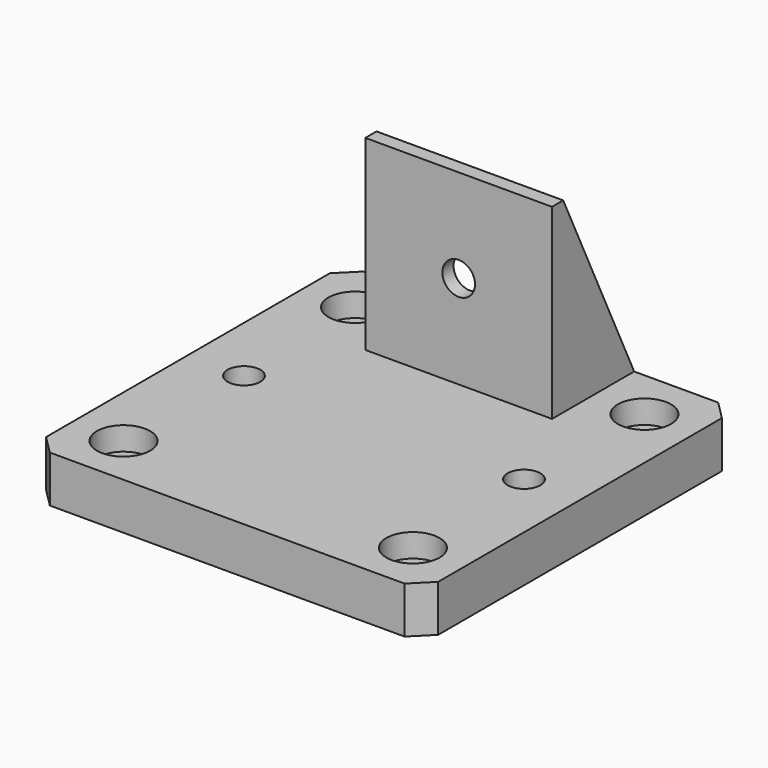
from build123d import *

# Parameters (mm, degrees)
BOX_W           = 42
BOX_H           = 42
BOX_DEPTH       = 5
SKETCH_R        = 2.75
POCKET_DEPTH    = 2.5
SKETCH001_R     = 1.55
POCKET001_DEPTH = 5
SKETCH002_R     = 2.75
POCKET002_DEPTH = 2.5
SKETCH003_R     = 1.55
POCKET003_DEPTH = 5
CHAMFER_SIZE    = 2
CHAMFER001_SIZE = 2
CHAMFER002_SIZE = 2
CHAMFER003_SIZE = 2
SKETCH004_W     = 16
SKETCH004_H     = 2.5
PAD_DEPTH       = 20
PAD001_DEPTH    = 2
PAD002_DEPTH    = 2
SKETCH007_R     = 1.55
POCKET004_DEPTH = 5
SKETCH008_W     = 20
SKETCH008_H     = 20
POCKET005_DEPTH = 1
SKETCH010_R     = 2.85
SKETCH010_R_2   = 1.75
POCKET006_DEPTH = 2.5
SKETCH011_R     = 1.75
SKETCH011_R_2   = 2.85
POCKET007_DEPTH = 2.5
SKETCH012_R     = 1.75
POCKET008_DEPTH = 5


with BuildPart() as part:
    # Box → Box (new body)
    with BuildSketch(Plane(origin=(-21, -21, 0), x_dir=(1, 0, 0), z_dir=(0, 0, 1))):
        with Locations((21, 21)):
            Rectangle(BOX_W, BOX_H)
    extrude(amount=BOX_DEPTH)

    # Sketch → Pocket (cut)
    with BuildSketch(Plane(origin=(-21, -21, 5), x_dir=(1, 0, 0), z_dir=(0, 0, 1))):
        with Locations((5.5, 5.5)):
            Circle(SKETCH_R)
        with Locations((36.5, 5.5)):
            Circle(SKETCH_R)
        with Locations((36.5, 36.5)):
            Circle(SKETCH_R)
        with Locations((5.5, 36.5)):
            Circle(SKETCH_R)
    extrude(amount=-POCKET_DEPTH, mode=Mode.SUBTRACT)

    # Sketch001 → Pocket001 (cut)
    with BuildSketch(Plane(origin=(-21, -21, 0), x_dir=(1, 0, 0), z_dir=(0, 0, -1))):
        with Locations((5.5, -5.5)):
            Circle(SKETCH001_R)
        with Locations((36.5, -5.5)):
            Circle(SKETCH001_R)
        with Locations((36.5, -36.5)):
            Circle(SKETCH001_R)
        with Locations((5.5, -36.5)):
            Circle(SKETCH001_R)
    extrude(amount=-POCKET001_DEPTH, mode=Mode.SUBTRACT)

    # Sketch002 → Pocket002 (cut)
    with BuildSketch(Plane(origin=(-21, -21, 0), x_dir=(1, 0, 0), z_dir=(0, 0, -1))):
        with Locations((6, -21)):
            Circle(SKETCH002_R)
        with Locations((36, -21)):
            Circle(SKETCH002_R)
    extrude(amount=-POCKET002_DEPTH, mode=Mode.SUBTRACT)

    # Sketch003 → Pocket003 (cut)
    with BuildSketch(Plane(origin=(-21, -21, 5), x_dir=(1, 0, 0), z_dir=(0, 0, 1))):
        with Locations((6, 21)):
            Circle(SKETCH003_R)
        with Locations((36, 21)):
            Circle(SKETCH003_R)
    extrude(amount=-POCKET003_DEPTH, mode=Mode.SUBTRACT)

    # Chamfer
    chamfer_edges = [part.edges().sort_by_distance(p)[0] for p in [
        (-21, -21, 2.5),
    ]]
    chamfer(chamfer_edges, length=CHAMFER_SIZE)

    # Chamfer001
    chamfer001_edges = [part.edges().sort_by_distance(p)[0] for p in [
        (-21, 21, 2.5),
    ]]
    chamfer(chamfer001_edges, length=CHAMFER001_SIZE)

    # Chamfer002
    chamfer002_edges = [part.edges().sort_by_distance(p)[0] for p in [
        (21, 21, 2.5),
    ]]
    chamfer(chamfer002_edges, length=CHAMFER002_SIZE)

    # Chamfer003
    chamfer003_edges = [part.edges().sort_by_distance(p)[0] for p in [
        (21, -21, 2.5),
    ]]
    chamfer(chamfer003_edges, length=CHAMFER003_SIZE)

    # Sketch004 → Pad (new body)
    with BuildSketch(Plane(origin=(-21, -21, 5), x_dir=(1, 0, 0), z_dir=(0, 0, 1))):
        with Locations((21, 31.25)):
            Rectangle(SKETCH004_W, SKETCH004_H)
    extrude(amount=PAD_DEPTH)

    # Sketch005 → Pad001 (new body)
    with BuildSketch(Plane(origin=(-8, -21, 0), x_dir=(0, -1, 0), z_dir=(-1, 0, 0))):
        Polygon((-30, 25), (-32.5, 25), (-41.94515, 5), (-30, 5), align=None)
    extrude(amount=PAD001_DEPTH)

    # Sketch006 → Pad002 (new body)
    with BuildSketch(Plane(origin=(8, -21, 0), x_dir=(0, 1, 0), z_dir=(1, 0, 0))):
        Polygon((30, 25), (32.5, 25), (42, 5), (30, 5), align=None)
    extrude(amount=PAD002_DEPTH)

    # Sketch007 → Pocket004 (cut)
    with BuildSketch(Plane(origin=(-21, 11.5, 0), x_dir=(-1, 0, 0), z_dir=(0, 1, 0))):
        with Locations((-21, 15)):
            Circle(SKETCH007_R)
    extrude(amount=-POCKET004_DEPTH, mode=Mode.SUBTRACT)

    # Sketch008 → Pocket005 (cut)
    with BuildSketch(Plane(origin=(-21, 9, 0), x_dir=(1, 0, 0), z_dir=(0, -1, 0))):
        with Locations((21, 15)):
            Rectangle(SKETCH008_W, SKETCH008_H)
    extrude(amount=-POCKET005_DEPTH, mode=Mode.SUBTRACT)

    # Sketch010 → Pocket006 (cut)
    with BuildSketch(Plane(origin=(-21, -21, 5), x_dir=(1, 0, 0), z_dir=(0, 0, 1))):
        with Locations((5.5, 36.5)):
            Circle(SKETCH010_R)
        with Locations((5.5, 5.5)):
            Circle(SKETCH010_R)
        with Locations((36.5, 5.5)):
            Circle(SKETCH010_R)
        with Locations((36, 21)):
            Circle(SKETCH010_R_2)
        with Locations((36.5, 36.5)):
            Circle(SKETCH010_R)
        with Locations((6, 21)):
            Circle(SKETCH010_R_2)
    extrude(amount=-POCKET006_DEPTH, mode=Mode.SUBTRACT)

    # Sketch011 → Pocket007 (cut)
    with BuildSketch(Plane(origin=(-21, -21, 0), x_dir=(1, 0, 0), z_dir=(0, 0, -1))):
        with Locations((5.5, -5.5)):
            Circle(SKETCH011_R)
        with Locations((36.5, -5.5)):
            Circle(SKETCH011_R)
        with Locations((6, -21)):
            Circle(SKETCH011_R_2)
        with Locations((36, -21)):
            Circle(SKETCH011_R_2)
        with Locations((36.5, -36.5)):
            Circle(SKETCH011_R)
        with Locations((5.5, -36.5)):
            Circle(SKETCH011_R)
    extrude(amount=-POCKET007_DEPTH, mode=Mode.SUBTRACT)

    # Sketch012 → Pocket008 (cut)
    with BuildSketch(Plane(origin=(-21, 10, 0), x_dir=(1, 0, 0), z_dir=(0, -1, 0))):
        with Locations((21, 15)):
            Circle(SKETCH012_R)
    extrude(amount=-POCKET008_DEPTH, mode=Mode.SUBTRACT)


solid = part.part
